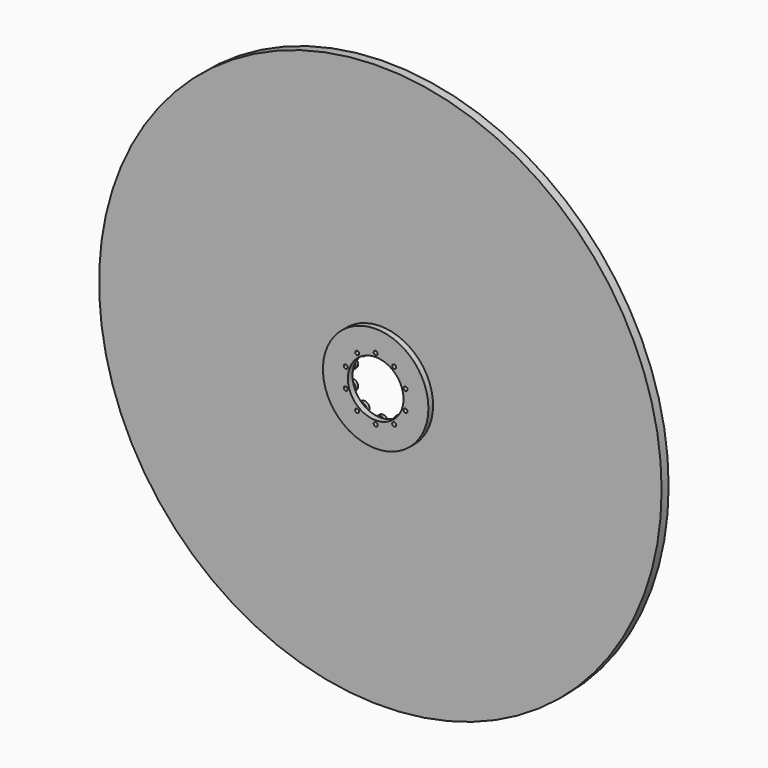
from build123d import *

# Parameters (mm, degrees)
F0_R     = 11
F0_R_2   = 4
F1_DEPTH = 3.5
F2_R     = 114.3
F2_R_2   = 82.55
F2_R_3   = 4.25
F3_DEPTH = 12.7
F2_R_4   = 609.6
F4_DEPTH = 19.05


with BuildPart() as f1:
    # F0 (on Front) → F1 (new body, symmetric)
    with BuildSketch(Plane.XZ):
        with Locations((0, 68.15)):
            Circle(F0_R)
        with Locations((0, 68.15)):
            Circle(F0_R_2, mode=Mode.SUBTRACT)
    extrude(amount=F1_DEPTH, both=True)


with BuildPart() as f1b:
    # F0 (on Front) → F1, piece 2 (new body, symmetric)
    with BuildSketch(Plane.XZ):
        with Locations((-40.0575649437, 55.1345081667)):
            Circle(F0_R)
        with Locations((-40.0575649437, 55.1345081667)):
            Circle(F0_R_2, mode=Mode.SUBTRACT)
    extrude(amount=F1_DEPTH, both=True)


with BuildPart() as f1c:
    # F0 (on Front) → F1, piece 3 (new body, symmetric)
    with BuildSketch(Plane.XZ):
        with Locations((-64.8145015855, 21.0595081667)):
            Circle(F0_R)
        with Locations((-64.8145015855, 21.0595081667)):
            Circle(F0_R_2, mode=Mode.SUBTRACT)
    extrude(amount=F1_DEPTH, both=True)


with BuildPart() as f1d:
    # F0 (on Front) → F1, piece 4 (new body, symmetric)
    with BuildSketch(Plane.XZ):
        with Locations((-64.8145015855, -21.0595081667)):
            Circle(F0_R)
        with Locations((-64.8145015855, -21.0595081667)):
            Circle(F0_R_2, mode=Mode.SUBTRACT)
    extrude(amount=F1_DEPTH, both=True)


with BuildPart() as f1e:
    # F0 (on Front) → F1, piece 5 (new body, symmetric)
    with BuildSketch(Plane.XZ):
        with Locations((-40.0575649437, -55.1345081667)):
            Circle(F0_R)
        with Locations((-40.0575649437, -55.1345081667)):
            Circle(F0_R_2, mode=Mode.SUBTRACT)
    extrude(amount=F1_DEPTH, both=True)


with BuildPart() as f1f:
    # F0 (on Front) → F1, piece 6 (new body, symmetric)
    with BuildSketch(Plane.XZ):
        with Locations((0, -68.15)):
            Circle(F0_R)
        with Locations((0, -68.15)):
            Circle(F0_R_2, mode=Mode.SUBTRACT)
    extrude(amount=F1_DEPTH, both=True)


with BuildPart() as f1g:
    # F0 (on Front) → F1, piece 7 (new body, symmetric)
    with BuildSketch(Plane.XZ):
        with Locations((40.0575649437, -55.1345081667)):
            Circle(F0_R)
        with Locations((40.0575649437, -55.1345081667)):
            Circle(F0_R_2, mode=Mode.SUBTRACT)
    extrude(amount=F1_DEPTH, both=True)


with BuildPart() as f1h:
    # F0 (on Front) → F1, piece 8 (new body, symmetric)
    with BuildSketch(Plane.XZ):
        with Locations((64.8145015855, -21.0595081667)):
            Circle(F0_R)
        with Locations((64.8145015855, -21.0595081667)):
            Circle(F0_R_2, mode=Mode.SUBTRACT)
    extrude(amount=F1_DEPTH, both=True)


with BuildPart() as f1i:
    # F0 (on Front) → F1, piece 9 (new body, symmetric)
    with BuildSketch(Plane.XZ):
        with Locations((64.8145015855, 21.0595081667)):
            Circle(F0_R)
        with Locations((64.8145015855, 21.0595081667)):
            Circle(F0_R_2, mode=Mode.SUBTRACT)
    extrude(amount=F1_DEPTH, both=True)


with BuildPart() as f1j:
    # F0 (on Front) → F1, piece 10 (new body, symmetric)
    with BuildSketch(Plane.XZ):
        with Locations((40.0575649437, 55.1345081667)):
            Circle(F0_R)
        with Locations((40.0575649437, 55.1345081667)):
            Circle(F0_R_2, mode=Mode.SUBTRACT)
    extrude(amount=F1_DEPTH, both=True)


with BuildPart() as f3:
    # F2 (on face) → F3 (new body)
    with BuildSketch(Plane.XZ.offset(3.5)):
        Circle(F2_R)
        Circle(F2_R_2, mode=Mode.SUBTRACT)
        Circle(F2_R_2)
        with Locations((-40.0575649437, -55.1345081667)):
            Circle(F2_R_3, mode=Mode.SUBTRACT)
        with Locations((-64.8145015855, -21.0595081667)):
            Circle(F2_R_3, mode=Mode.SUBTRACT)
        with Locations((0, -68.15)):
            Circle(F2_R_3, mode=Mode.SUBTRACT)
        with Locations((40.0575649437, -55.1345081667)):
            Circle(F2_R_3, mode=Mode.SUBTRACT)
        with Locations((64.8145015855, -21.0595081667)):
            Circle(F2_R_3, mode=Mode.SUBTRACT)
        with Locations((-64.8145015855, 21.0595081667)):
            Circle(F2_R_3, mode=Mode.SUBTRACT)
        with Locations((-40.0575649437, 55.1345081667)):
            Circle(F2_R_3, mode=Mode.SUBTRACT)
        with BuildLine():
            ThreePointArc((7.2604646174, 59.8864866104), (45.1502666274, 40.0069874957), (60.325, 0))
            ThreePointArc((60.325, 0), (-40.0069874957, -45.1502666274), (-7.2604646174, 59.8864866104))
            ThreePointArc((-7.2604646174, 59.8864866104), (-4.5351344638, 78.1716044322), (11, 68.15))
            ThreePointArc((11, 68.15), (10.0216044322, 63.6148655362), (7.2604646174, 59.8864866104))
        make_face(mode=Mode.SUBTRACT)
        with Locations((64.8145015855, 21.0595081667)):
            Circle(F2_R_3, mode=Mode.SUBTRACT)
        with Locations((40.0575649437, 55.1345081667)):
            Circle(F2_R_3, mode=Mode.SUBTRACT)
        with BuildLine():
            ThreePointArc((-7.2604646174, 59.8864866104), (0, 60.325), (7.2604646174, 59.8864866104))
            ThreePointArc((7.2604646174, 59.8864866104), (10.0216044322, 63.6148655362), (11, 68.15))
            ThreePointArc((11, 68.15), (-4.5351344638, 78.1716044322), (-7.2604646174, 59.8864866104))
        make_face()
        with Locations((0, 68.15)):
            Circle(F2_R_3, mode=Mode.SUBTRACT)
    extrude(amount=F3_DEPTH)


with BuildPart() as f4:
    # F2 (on face) → F4 (new body)
    with BuildSketch(Plane.XZ.offset(3.5)):
        Circle(F2_R_4)
        Circle(F2_R, mode=Mode.SUBTRACT)
        Circle(F2_R)
        Circle(F2_R_2, mode=Mode.SUBTRACT)
    extrude(amount=-F4_DEPTH)


solid = Compound([f1.part, f1b.part, f1c.part, f1d.part, f1e.part, f1f.part, f1g.part, f1h.part, f1i.part, f1j.part, f3.part, f4.part])
